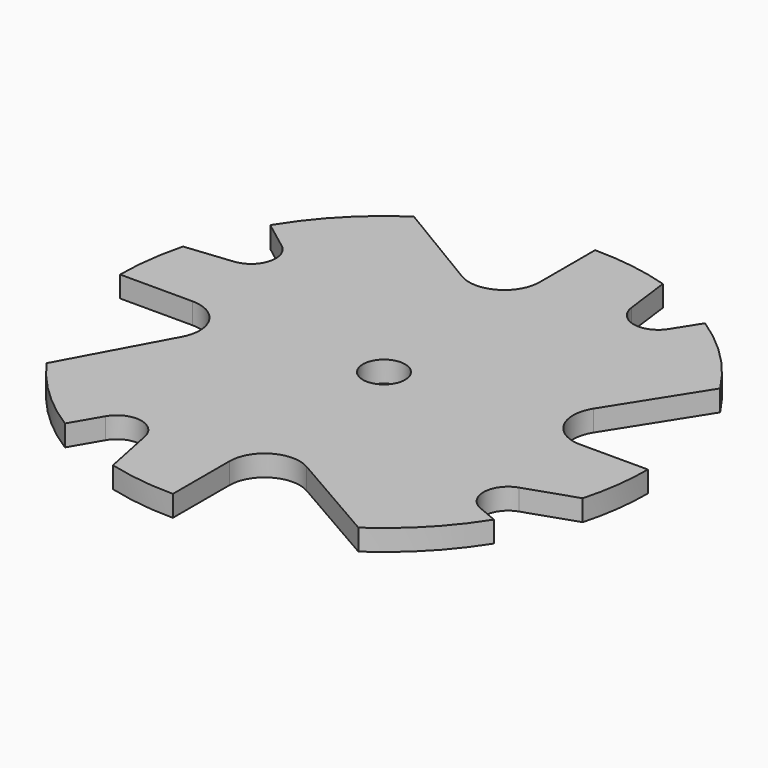
from build123d import *

# Parameters (mm, degrees)
F0_R     = 3
F1_DEPTH = 3
F2_R     = 5
F3_R     = 5
F4_R     = 5
F5_R     = 5
F6_R     = 3.5
F7_R     = 3.5
F8_R     = 3.5
F9_R     = 3.5


with BuildPart() as f1:
    # F0 (on Top) → F1 (new body)
    with BuildSketch(Plane.XY):
        with BuildLine():
            ThreePointArc((73.665267, 27.584182), (74.664819, 32.497377), (75, 37.5))
            Line((75, 37.5), (56.3, 37.5))
            Line((56.3, 37.5), (69.082022, 57.719443))
            ThreePointArc((69.082022, 57.719443), (64.132536, 63.899962), (57.995666, 68.903466))
            Line((57.995666, 68.903466), (50.514808, 57.069753))
            Line((50.514808, 57.069753), (48.427588, 73.372522))
            ThreePointArc((48.427588, 73.372522), (43.024058, 74.590899), (37.5, 75))
            Line((37.5, 75), (37.5, 56.3))
            Line((37.5, 56.3), (16.751921, 68.737273))
            ThreePointArc((16.751921, 68.737273), (10.54359, 63.569176), (5.586086, 57.191421))
            Line((5.586086, 57.191421), (16.751921, 48.74606))
            Line((16.751921, 48.74606), (1.253953, 47.116346))
            ThreePointArc((1.253953, 47.116346), (0.31481, 42.348879), (0, 37.5))
            Line((0, 37.5), (18.7, 37.5))
            Line((18.7, 37.5), (6.938024, 15.769478))
            ThreePointArc((6.938024, 15.769478), (11.763487, 10.225802), (17.577552, 5.729793))
            Line((17.577552, 5.729793), (24.635362, 17.820587))
            Line((24.635362, 17.820587), (28.01219, 1.220096))
            ThreePointArc((28.01219, 1.220096), (32.717031, 0.306275), (37.5, 0))
            Line((37.5, 0), (37.5, 18.7))
            Line((37.5, 18.7), (58.640158, 6.526726))
            ThreePointArc((58.640158, 6.526726), (64.467307, 11.442096), (69.179969, 17.434369))
            Line((69.179969, 17.434369), (57.719454, 22.204241))
            Line((57.719454, 22.204241), (73.665267, 27.584182))
        make_face()
        with Locations((37.5, 37.5)):
            Circle(F0_R, mode=Mode.SUBTRACT)
    extrude(amount=F1_DEPTH)

    # F2
    f2_edges = [f1.edges().sort_by_distance(p)[0] for p in [
        (37.5, 18.7, 1.5),
    ]]
    fillet(f2_edges, radius=F2_R)

    # F3
    f3_edges = [f1.edges().sort_by_distance(p)[0] for p in [
        (56.3, 37.5, 1.5),
    ]]
    fillet(f3_edges, radius=F3_R)

    # F4
    f4_edges = [f1.edges().sort_by_distance(p)[0] for p in [
        (18.7, 37.5, 1.5),
    ]]
    fillet(f4_edges, radius=F4_R)

    # F5
    f5_edges = [f1.edges().sort_by_distance(p)[0] for p in [
        (37.5, 56.3, 1.5),
    ]]
    fillet(f5_edges, radius=F5_R)

    # F6
    f6_edges = [f1.edges().sort_by_distance(p)[0] for p in [
        (24.635362, 17.820587, 1.5),
    ]]
    fillet(f6_edges, radius=F6_R)

    # F7
    f7_edges = [f1.edges().sort_by_distance(p)[0] for p in [
        (57.719454, 22.204241, 1.5),
    ]]
    fillet(f7_edges, radius=F7_R)

    # F8
    f8_edges = [f1.edges().sort_by_distance(p)[0] for p in [
        (50.514808, 57.069753, 1.5),
    ]]
    fillet(f8_edges, radius=F8_R)

    # F9
    f9_edges = [f1.edges().sort_by_distance(p)[0] for p in [
        (16.751921, 48.74606, 1.5),
    ]]
    fillet(f9_edges, radius=F9_R)


solid = f1.part
